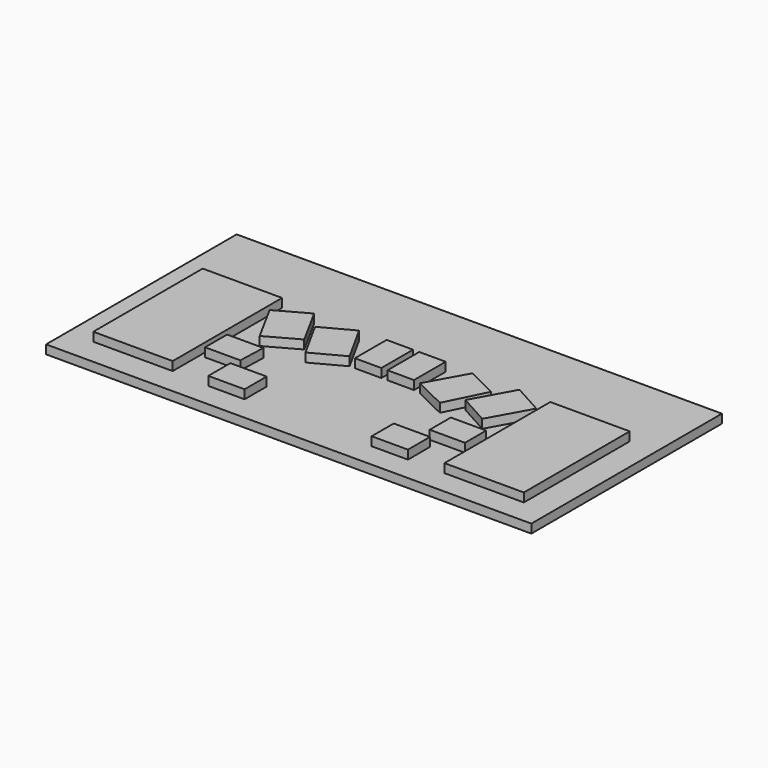
from build123d import *

# Parameters (mm, degrees)
F0_W     = 1397
F0_H     = 685.8
F1_DEPTH = 25.4
F2_W     = 228.6
F2_H     = 393.7
F2_H_2   = 381
F2_W_2   = 104.490054
F2_H_3   = 79.409756
F2_W_3   = 101.6
F2_H_4   = 76.2
F3_DEPTH = 25.4


with BuildPart() as f1:
    # F0 (on Top) → F1 (new body)
    with BuildSketch(Plane.XY):
        Rectangle(F0_W, F0_H)
    extrude(amount=F1_DEPTH)


with BuildPart() as f3:
    # F2 (on face) → F3 (new body)
    with BuildSketch(Plane.XY.offset(25.4)):
        with Locations((-509.270025, -69.85)):
            Rectangle(F2_W, F2_H)
        with Locations((506.729975, -82.55)):
            Rectangle(F2_W, F2_H_2)
        with Locations((235.125002, -233.345122)):
            Rectangle(F2_W_2, F2_H_3)
        Polygon((168.163586, 107.563006), (106.679975, -3.561994), (200.966421, -50.210266), (257.224639, 63.5), align=None)
        Polygon((300.962673, 111.485978), (237.308546, -3.561994), (324.038031, -51.547973), (387.692157, 63.5), align=None)
        Polygon((-99.059997, -1e-06), (-160.543608, 111.124999), (-249.443608, 63.499999), (-187.959997, -47.625001), align=None)
        Polygon((-229.688569, -1e-06), (-291.172179, 112.686888), (-380.072179, 63.499999), (-318.588569, -49.186889), align=None)
        Polygon((-83.819984, 114.159763), (-83.819984, -1e-06), (-7.619984, -0.140237), (-7.619984, 114.159763), align=None)
        Polygon((10.160015, 114.159764), (10.160015, 0), (86.360015, -0.140236), (86.360015, 114.159764), align=None)
        with Locations((-235.125002, -233.345122)):
            Rectangle(F2_W_2, F2_H_3)
        Polygon((-278.472179, -168.910027), (-275.582125, -89.50027), (-380.072179, -89.50027), (-380.072179, -168.910027), align=None)
        with Locations((315.83247, -128.750707)):
            Rectangle(F2_W_3, F2_H_4)
    extrude(amount=F3_DEPTH)


solid = Compound([f1.part, f3.part])
